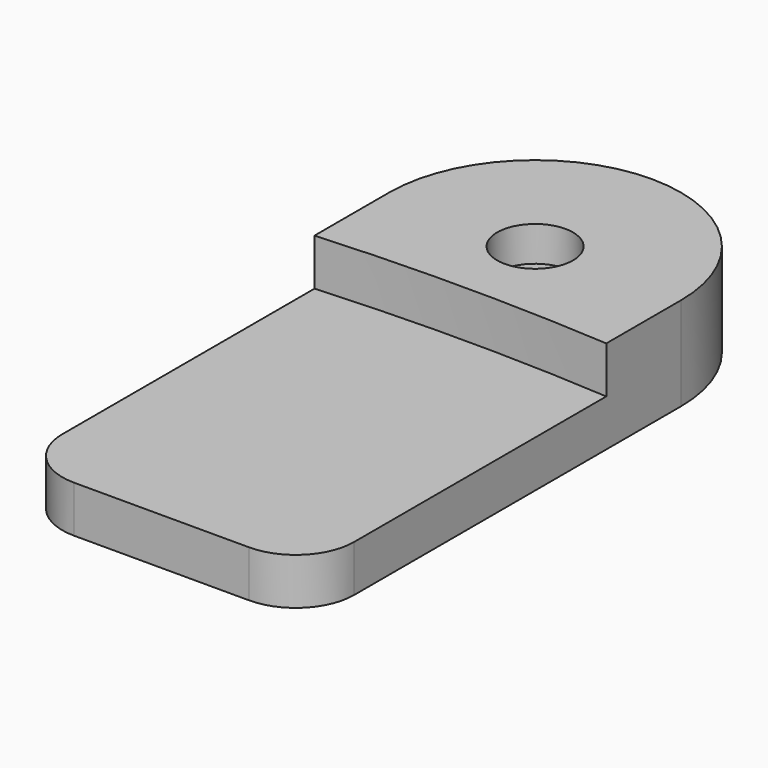
from build123d import *

# Parameters (mm, degrees)
F1_DEPTH       = 8
F2_DEPTH       = 4
F4_D           = 3.3
F4_CBORE_D     = 6.5
F4_CBORE_DEPTH = 3


with BuildPart() as f1:
    # F0 (on Top) → F1 (new body)
    with BuildSketch(Plane.XY):
        with BuildLine():
            Line((0, 40), (0, 32))
            ThreePointArc((0, 32), (12.5, 32.4116301035), (25, 32))
            Line((25, 32), (25, 40))
            ThreePointArc((25, 40), (12.5, 52.5), (0, 40))
        make_face()
    extrude(amount=F1_DEPTH)

    # F0 (on Top) → F2 (join)
    with BuildSketch(Plane.XY):
        with BuildLine():
            Line((0, 32), (0, 5))
            ThreePointArc((0, 5), (1.4644660941, 1.4644660941), (5, 0))
            Line((5, 0), (20, 0))
            ThreePointArc((20, 0), (23.5355339059, 1.4644660941), (25, 5))
            Line((25, 5), (25, 32))
            ThreePointArc((25, 32), (12.5, 32.4116301035), (0, 32))
        make_face()
    extrude(amount=F2_DEPTH)

    # F4 (through all)
    with Locations(Plane.XY.offset(8)):
        with Locations((12.5, 40)):
            CounterBoreHole(F4_D / 2, F4_CBORE_D / 2, F4_CBORE_DEPTH)


solid = f1.part
